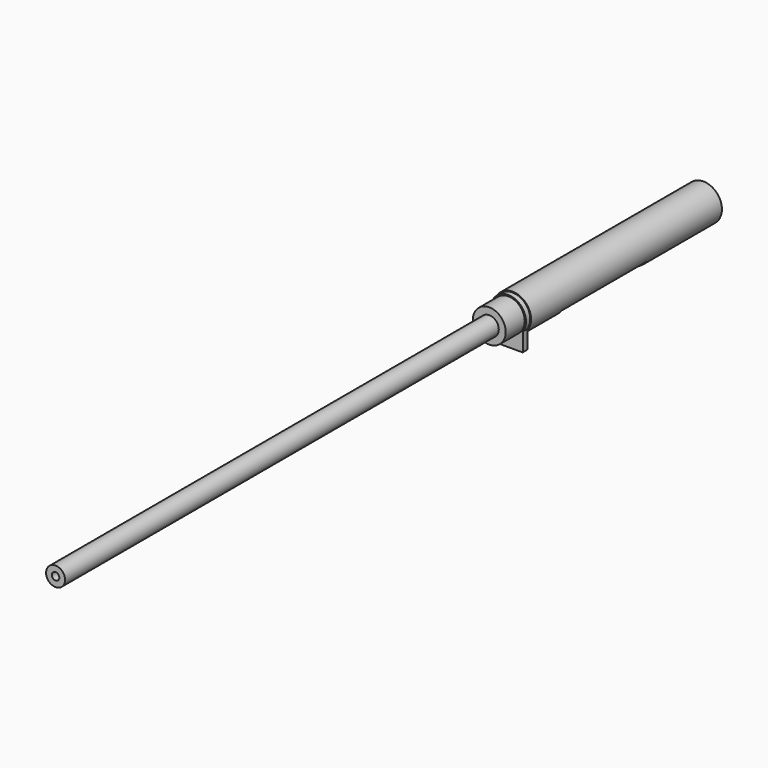
from build123d import *

# Parameters (mm, degrees)
F0_R      = 17.32915
F0_R_2    = 10.7823
F1_DEPTH  = 184.0484
F2_R      = 17.32915
F3_DEPTH  = 39.5097
F5_DEPTH  = 39.5097
F7_DEPTH  = 4.9657
F8_R      = 15.41145
F9_DEPTH  = 22.3012
F10_R     = 8.90905
F10_R_2   = 3.5
F11_DEPTH = 508
F12_W     = 28.5115
F12_H     = 99.4283
F13_DEPTH = 25.4
F14_R     = 3.175
F15_DEPTH = 25.4


with BuildPart() as f1:
    # F0 (on Front) → F1 (new body)
    with BuildSketch(Plane.XZ):
        Circle(F0_R)
        Circle(F0_R_2, mode=Mode.SUBTRACT)
    extrude(amount=F1_DEPTH)

    # F2 (on face) → F3 (join)
    with BuildSketch(Plane.XZ.offset(184.0484)):
        Circle(F2_R)
    extrude(amount=F3_DEPTH)

    # F4 (on face) → F5 (cut, through all)
    with BuildSketch(Plane.XZ.offset(223.5581)):
        with BuildLine():
            Line((6.427496, 9.320163), (2.655414, 7.142351))
            ThreePointArc((2.655414, 7.142351), (0, 7.62), (-2.655414, 7.142351))
            Line((-2.655414, 7.142351), (-6.427496, 9.320163))
            ThreePointArc((-6.427496, 9.320163), (-6.675815, 9.352855), (-6.874519, 9.200383))
            Line((-6.874519, 9.200383), (-11.405025, 1.353317))
            ThreePointArc((-11.405025, 1.353317), (-11.437717, 1.104998), (-11.285246, 0.906293))
            Line((-11.285246, 0.906293), (-7.513164, -1.271519))
            ThreePointArc((-7.513164, -1.271519), (-6.599114, -3.81), (-4.85775, -5.870832))
            Line((-4.85775, -5.870832), (-4.85775, -10.5537))
            ThreePointArc((-4.85775, -10.5537), (0, -15.41145), (4.85775, -10.5537))
            Line((4.85775, -10.5537), (4.85775, -5.870832))
            ThreePointArc((4.85775, -5.870832), (6.599114, -3.81), (7.513164, -1.271519))
            Line((7.513164, -1.271519), (11.285246, 0.906293))
            ThreePointArc((11.285246, 0.906293), (11.437717, 1.104998), (11.405025, 1.353317))
            Line((11.405025, 1.353317), (6.874519, 9.200383))
            ThreePointArc((6.874519, 9.200383), (6.675815, 9.352855), (6.427496, 9.320163))
        make_face()
    extrude(amount=-F5_DEPTH, mode=Mode.SUBTRACT)

    # F12 (on Top) → F13 (cut)
    with BuildSketch(Plane.XY):
        with Locations((0, -134.41045)):
            Rectangle(F12_W, F12_H)
    extrude(amount=-F13_DEPTH, mode=Mode.SUBTRACT)

    # F14 (on Top) → F15 (cut)
    with BuildSketch(Plane.XY):
        with BuildLine():
            ThreePointArc((4.064, -29.5148), (0, -25.4508), (-4.064, -29.5148))
            Line((-4.064, -29.5148), (-4.064, -73.7743))
            ThreePointArc((-4.064, -73.7743), (0, -77.8383), (4.064, -73.7743))
            Line((4.064, -73.7743), (4.064, -29.5148))
        make_face()
        with Locations((0, -11.176)):
            Circle(F14_R)
        with Locations((0, -200.6346)):
            Circle(F14_R)
    extrude(amount=-F15_DEPTH, mode=Mode.SUBTRACT)


with BuildPart() as f7:
    # F6 (on face) → F7 (new body)
    with BuildSketch(Plane.XZ.offset(223.5581)):
        with BuildLine():
            Line((13.9192, -25.73655), (13.9192, -8.937861))
            ThreePointArc((13.9192, -8.937861), (0, 16.54175), (-13.9192, -8.937861))
            Line((-13.9192, -8.937861), (-13.9192, -25.73655))
            ThreePointArc((-13.9192, -25.73655), (-13.688576, -26.293326), (-13.1318, -26.52395))
            Line((-13.1318, -26.52395), (13.1318, -26.52395))
            ThreePointArc((13.1318, -26.52395), (13.688576, -26.293326), (13.9192, -25.73655))
        make_face()
        with BuildLine():
            ThreePointArc((-4.85775, -5.870832), (-6.599114, -3.81), (-7.513164, -1.271519))
            Line((-7.513164, -1.271519), (-11.285246, 0.906293))
            ThreePointArc((-11.285246, 0.906293), (-11.437717, 1.104998), (-11.405025, 1.353317))
            Line((-11.405025, 1.353317), (-6.874519, 9.200383))
            ThreePointArc((-6.874519, 9.200383), (-6.675815, 9.352855), (-6.427496, 9.320163))
            Line((-6.427496, 9.320163), (-2.655414, 7.142351))
            ThreePointArc((-2.655414, 7.142351), (0, 7.62), (2.655414, 7.142351))
            Line((2.655414, 7.142351), (6.427496, 9.320163))
            ThreePointArc((6.427496, 9.320163), (6.675815, 9.352855), (6.874519, 9.200383))
            Line((6.874519, 9.200383), (11.405025, 1.353317))
            ThreePointArc((11.405025, 1.353317), (11.437717, 1.104998), (11.285246, 0.906293))
            Line((11.285246, 0.906293), (7.513164, -1.271519))
            ThreePointArc((7.513164, -1.271519), (6.599114, -3.81), (4.85775, -5.870832))
            Line((4.85775, -5.870832), (4.85775, -10.5537))
            ThreePointArc((4.85775, -10.5537), (0, -15.41145), (-4.85775, -10.5537))
            Line((-4.85775, -10.5537), (-4.85775, -5.870832))
        make_face(mode=Mode.SUBTRACT)
    extrude(amount=F7_DEPTH)


with BuildPart() as f9:
    # F8 (on face) → F9 (new body)
    with BuildSketch(Plane.XZ.offset(228.5238)):
        Circle(F8_R)
    extrude(amount=F9_DEPTH)


with BuildPart() as f11:
    # F10 (on face) → F11 (new body)
    with BuildSketch(Plane.XZ.offset(250.825)):
        Circle(F10_R)
        Circle(F10_R_2, mode=Mode.SUBTRACT)
    extrude(amount=F11_DEPTH)


solid = Compound([f1.part, f7.part, f9.part, f11.part])
